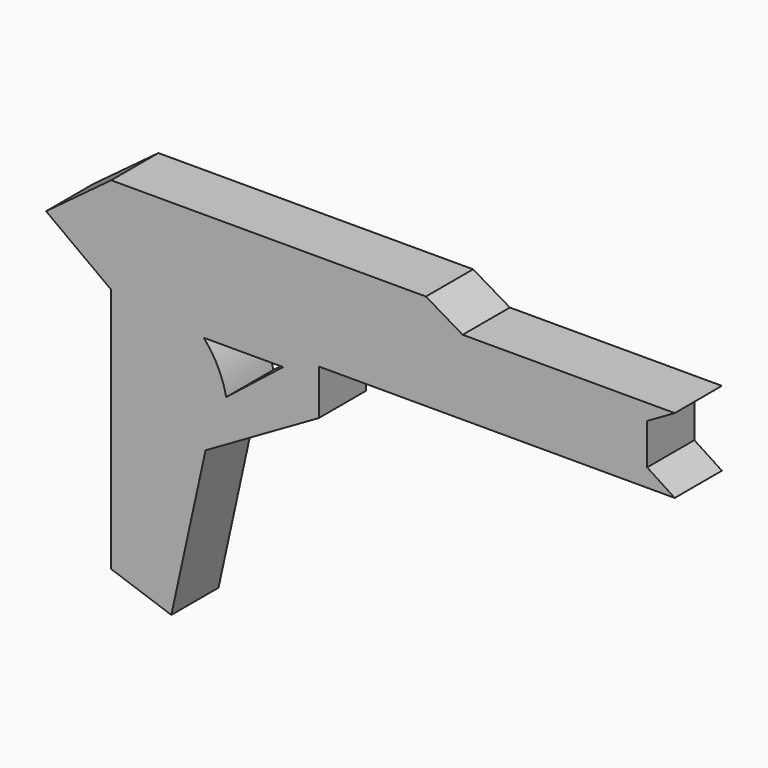
from build123d import *

# Parameters (mm, degrees)
F1_DEPTH = 10.16


with BuildPart() as f1:
    # F0 (on Front) → F1 (new body)
    with BuildSketch(Plane.XZ):
        Polygon((-24.764262, 0), (0, 0), (36.518488, 0), (31.773966, 3.091132), (31.773966, 10.136038), (36.518488, 12.867736), (0, 12.867736), (-6.326038, 16.60585), (-60.528681, 16.60585), (-71.743019, 8.266981), (-60.528681, 0), (-60.528681, -42.341322), (-50.176982, -45.935661), (-44.282265, -19.05), (-24.764262, -7.81235), align=None)
        Polygon((-40.728654, -9.835242), (-44.569813, -12.867736), (-44.569813, -2.084717), (-30.911321, -2.084717), align=None, mode=Mode.SUBTRACT)
        with BuildLine():
            Line((-44.569813, -2.084717), (-44.569813, -12.867736))
            Line((-44.569813, -12.867736), (-40.728654, -9.835242))
            ThreePointArc((-40.728654, -9.835242), (-42.133945, -5.704603), (-44.569813, -2.084717))
        make_face()
    extrude(amount=F1_DEPTH)


solid = f1.part
